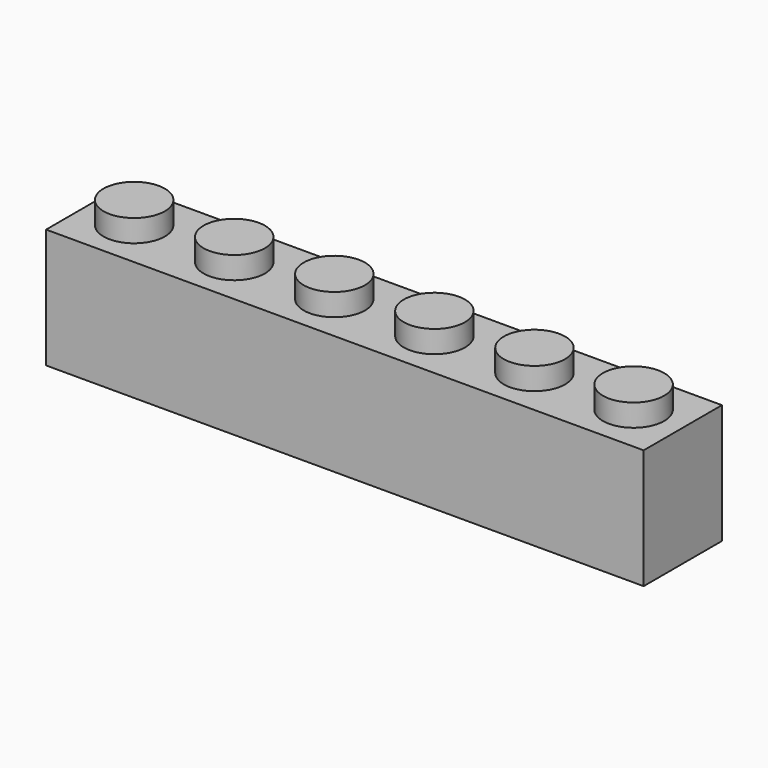
from build123d import *

# Parameters (mm, degrees)
F0_W      = 47.7774
F0_H      = 7.8232
F1_DEPTH  = 4.78155
F2_R      = 2.4511
F8_DEPTH  = 1.778
F3_R      = 2.4511
F9_DEPTH  = 1.778
F4_R      = 2.4511
F10_DEPTH = 1.778
F5_R      = 2.4511
F11_DEPTH = 1.778
F6_R      = 2.4511
F12_DEPTH = 1.778
F7_R      = 2.4511
F13_DEPTH = 1.778
F14_W     = 46.2534
F14_H     = 6.2992
F20_DEPTH = 8.3312
F15_R     = 1.4859
F21_DEPTH = 8.3312
F16_R     = 1.4859
F22_DEPTH = 8.3312
F17_R     = 1.4859
F23_DEPTH = 8.3312
F19_R     = 1.4859
F24_DEPTH = 8.3312
F18_R     = 1.4859
F25_DEPTH = 8.3312


with BuildPart() as f1:
    # F0 (on Top) → F1 (new body, symmetric)
    with BuildSketch(Plane.XY):
        Rectangle(F0_W, F0_H)
    extrude(amount=F1_DEPTH, both=True)

    # F2 (on face) → F8 (join)
    with BuildSketch(Plane.XY.offset(4.78155)):
        with Locations((-19.9644, -0.0127)):
            Circle(F2_R)
    extrude(amount=F8_DEPTH)

    # F3 (on face) → F9 (join)
    with BuildSketch(Plane.XY.offset(4.78155)):
        with Locations((-11.9634, -0.0127)):
            Circle(F3_R)
    extrude(amount=F9_DEPTH)

    # F4 (on face) → F10 (join)
    with BuildSketch(Plane.XY.offset(4.78155)):
        with Locations((-3.9624, -0.0127)):
            Circle(F4_R)
    extrude(amount=F10_DEPTH)

    # F5 (on face) → F11 (join)
    with BuildSketch(Plane.XY.offset(4.78155)):
        with Locations((4.0386, -0.0127)):
            Circle(F5_R)
    extrude(amount=F11_DEPTH)

    # F6 (on face) → F12 (join)
    with BuildSketch(Plane.XY.offset(4.78155)):
        with Locations((12.0396, -0.0127)):
            Circle(F6_R)
    extrude(amount=F12_DEPTH)

    # F7 (on face) → F13 (join)
    with BuildSketch(Plane.XY.offset(4.78155)):
        with Locations((19.9644, -0.0127)):
            Circle(F7_R)
    extrude(amount=F13_DEPTH)

    # F14 (on face) → F20 (cut)
    with BuildSketch(Plane(origin=(0, 0, -4.78155), x_dir=(1, 0, 0), z_dir=(0, 0, -1))):
        Rectangle(F14_W, F14_H)
    extrude(amount=-F20_DEPTH, mode=Mode.SUBTRACT)

    # F15 (on face) → F21 (join)
    with BuildSketch(Plane(origin=(0, 0, -4.78155), x_dir=(1, 0, 0), z_dir=(0, 0, -1))):
        with Locations((-16.6116, 0)):
            Circle(F15_R)
    extrude(amount=-F21_DEPTH)

    # F16 (on face) → F22 (join)
    with BuildSketch(Plane(origin=(0, 0, -4.78155), x_dir=(1, 0, 0), z_dir=(0, 0, -1))):
        with Locations((-8.5344, 0)):
            Circle(F16_R)
    extrude(amount=-F22_DEPTH)

    # F17 (on face) → F23 (join)
    with BuildSketch(Plane(origin=(0, 0, -4.78155), x_dir=(1, 0, 0), z_dir=(0, 0, -1))):
        Circle(F17_R)
    extrude(amount=-F23_DEPTH)

    # F19 (on face) → F24 (join)
    with BuildSketch(Plane(origin=(0, 0, -4.78155), x_dir=(1, 0, 0), z_dir=(0, 0, -1))):
        with Locations((8.5598, 0)):
            Circle(F19_R)
    extrude(amount=-F24_DEPTH)

    # F18 (on face) → F25 (join)
    with BuildSketch(Plane(origin=(0, 0, -4.78155), x_dir=(1, 0, 0), z_dir=(0, 0, -1))):
        with Locations((16.6116, 0)):
            Circle(F18_R)
    extrude(amount=-F25_DEPTH)


solid = f1.part
